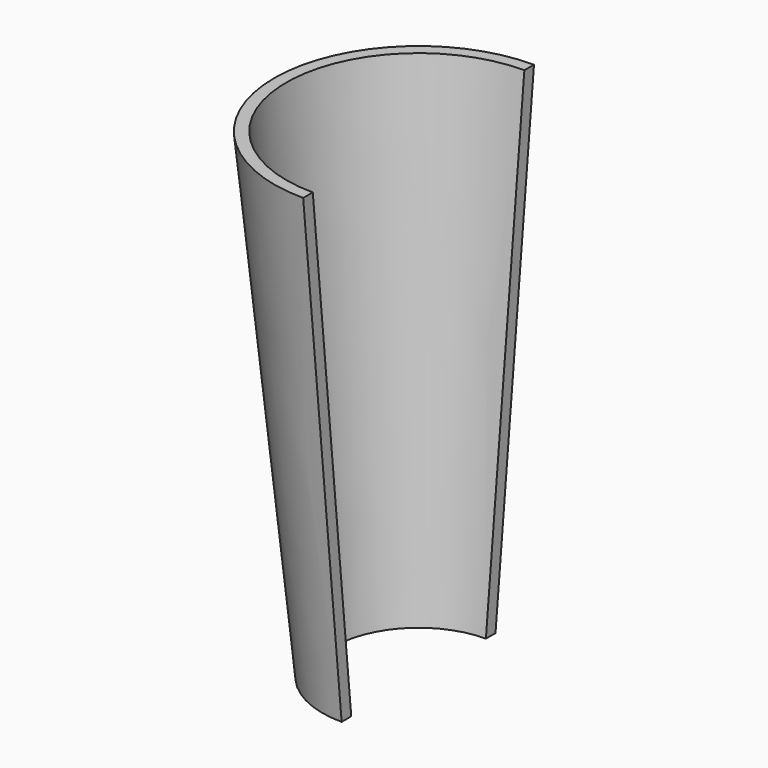
from build123d import *


with BuildPart() as f3:
    # F2 (on offset) → F3 section 0
    with BuildSketch(Plane.XY.offset(200)):
        with BuildLine():
            Line((0, 55), (0, 60))
            ThreePointArc((0, 60), (-60, 0), (0, -60))
            Line((0, -60), (0, -55))
            ThreePointArc((0, -55), (-55, 0), (0, 55))
        make_face()
    # F0 (on Top) → F3 section 1
    with BuildSketch(Plane.XY):
        with BuildLine():
            Line((0, 35), (0, 40))
            ThreePointArc((0, 40), (-40, 0), (0, -40))
            Line((0, -40), (0, -35))
            ThreePointArc((0, -35), (-35, 0), (0, 35))
        make_face()
    loft()


solid = f3.part
